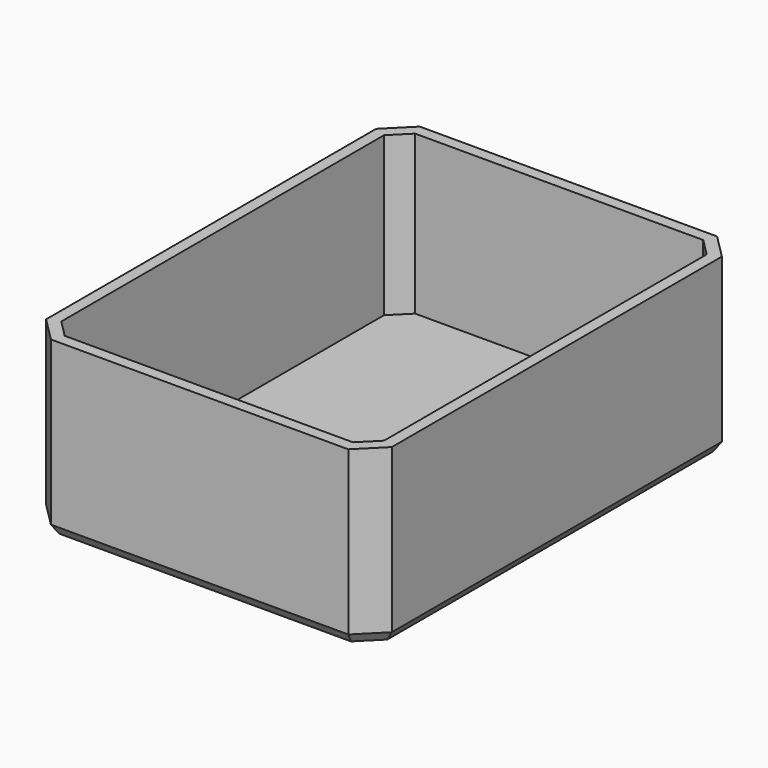
from build123d import *

# Parameters (mm, degrees)
F0_W     = 60
F0_H     = 80
F1_DEPTH = 30
F2_W     = 56
F2_H     = 76
F3_DEPTH = 27.5
F4_SIZE  = 3
F5_SIZE  = 4.2
F6_SIZE2 = 1.7137776081
F6_SIZE  = 1.2


with BuildPart() as f1:
    # F0 (on Top) → F1 (new body)
    with BuildSketch(Plane.XY):
        with Locations((30, -40)):
            Rectangle(F0_W, F0_H)
    extrude(amount=F1_DEPTH)

    # F2 (on face) → F3 (cut, through all)
    with BuildSketch(Plane.XY.offset(30)):
        with Locations((30, -40)):
            Rectangle(F2_W, F2_H)
    extrude(amount=-F3_DEPTH, mode=Mode.SUBTRACT)

    # F4
    f4_edges = [f1.edges().sort_by_distance(p)[0] for p in [
        (58, -2, 16.25),
        (2, -2, 16.25),
        (58, -78, 16.25),
        (2, -78, 16.25),
    ]]
    chamfer(f4_edges, length=F4_SIZE)

    # F5
    f5_edges = [f1.edges().sort_by_distance(p)[0] for p in [
        (0, 0, 15),
        (60, 0, 15),
        (60, -80, 15),
        (0, -80, 15),
    ]]
    chamfer(f5_edges, length=F5_SIZE)

    # F6
    f6_edges = [f1.edges().sort_by_distance(p)[0] for p in [
        (30, 0, 0),
        (57.9, -2.1, 0),
        (2.1, -2.1, 0),
        (60, -40, 0),
        (0, -40, 0),
        (57.9, -77.9, 0),
        (2.1, -77.9, 0),
        (30, -80, 0),
    ]]
    f6_side = f1.faces().sort_by_distance((30, -40, 0))[0]
    chamfer(f6_edges, length=F6_SIZE, length2=F6_SIZE2, reference=f6_side)


solid = f1.part
